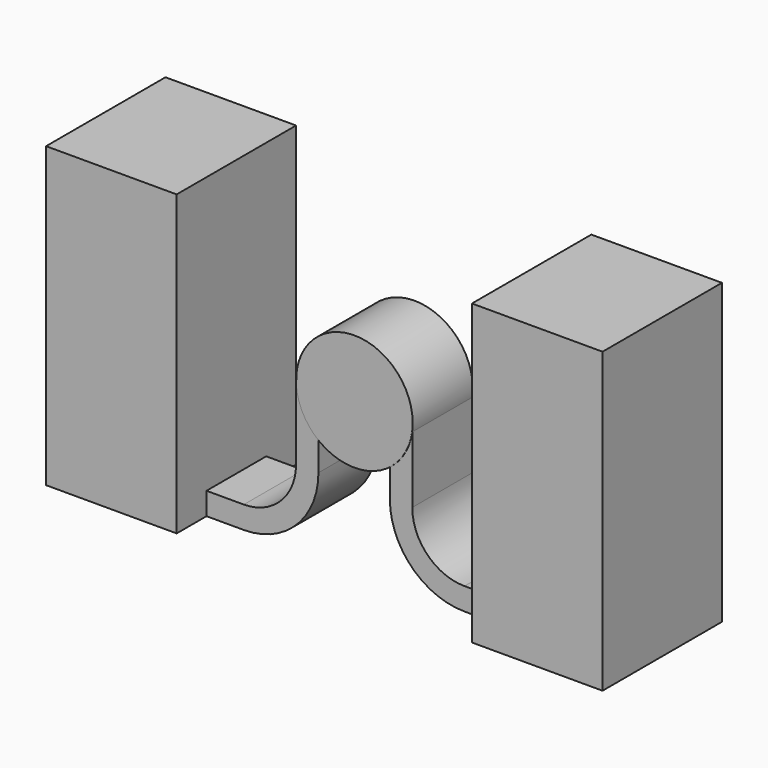
from build123d import *

# Parameters (mm, degrees)
F1_DEPTH = 25.4
F2_DEPTH = 12.7
F3_W     = 19.8312886059
F3_H     = 25.5796890706


with BuildPart() as f1:
    # F0 (on Front) → F1 (new body, symmetric)
    with BuildSketch(Plane.XZ):
        Polygon((-50.42089539, 50.8), (-94.87089539, 50.8), (-94.87089539, -50.8), (-50.42089539, -50.8), (-50.42089539, -43.18), align=None)
    extrude(amount=F1_DEPTH, both=True)


with BuildPart() as f1b:
    # F0 (on Front) → F1, piece 2 (new body, symmetric)
    with BuildSketch(Plane.XZ):
        Polygon((94.5487486538, -50.8), (94.5487486538, 50.8), (50.0987486538, 50.8), (50.0987486538, -43.18), (50.0987486538, -50.8), align=None)
    extrude(amount=F1_DEPTH, both=True)


with BuildPart() as f2:
    # F0 (on Front) → F2 (new body, symmetric)
    with BuildSketch(Plane.XZ):
        with BuildLine():
            Line((-37.72089539, -43.18), (-50.42089539, -43.18))
            Line((-50.42089539, -43.18), (-50.42089539, -50.8))
            Line((-50.42089539, -50.8), (-37.72089539, -50.8))
            ThreePointArc((-37.72089539, -50.8), (-19.7603831478, -43.3605122421), (-12.32089539, -25.4))
            Line((-12.32089539, -25.4), (-12.32089539, 0))
            Line((-12.32089539, 0), (-19.94089539, 0))
            Line((-19.94089539, 0), (-19.94089539, -25.4))
            ThreePointArc((-19.94089539, -25.4), (-25.1485368205, -37.9723585695), (-37.72089539, -43.18))
        make_face()
    extrude(amount=F2_DEPTH, both=True)


with BuildPart() as f2b:
    # F0 (on Front) → F2, piece 2 (new body, symmetric)
    with BuildSketch(Plane.XZ):
        with BuildLine():
            Line((50.0987486538, -50.8), (50.0987486538, -43.18))
            Line((50.0987486538, -43.18), (37.3987486538, -43.18))
            ThreePointArc((37.3987486538, -43.18), (24.8263900843, -37.9723585695), (19.6187486538, -25.4))
            Line((19.6187486538, -25.4), (19.6187486538, 0))
            Line((19.6187486538, 0), (11.9987486538, 0))
            Line((11.9987486538, 0), (11.9987486538, -25.4))
            ThreePointArc((11.9987486538, -25.4), (19.4382364117, -43.3605122421), (37.3987486538, -50.8))
            Line((37.3987486538, -50.8), (50.0987486538, -50.8))
        make_face()
    extrude(amount=F2_DEPTH, both=True)


with BuildPart() as f4:
    # F3 (on Top) → F4 (revolve)
    with BuildSketch(Plane.XY):
        with Locations((9.915644303, 0)):
            Rectangle(F3_W, F3_H)
    revolve(axis=Axis((0, 0, 0), (0, -1, 0)))


solid = Compound([f1.part, f1b.part, f2.part, f2b.part, f4.part])
